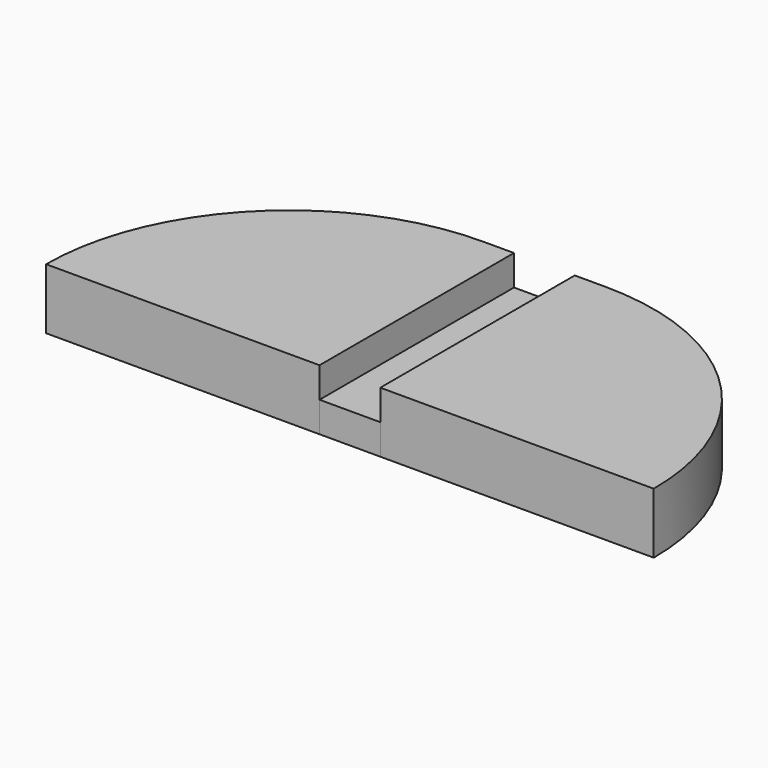
from build123d import *

# Parameters (mm, degrees)
F0_W     = 6.35
F0_H     = 25.4
F1_DEPTH = 6.35
F3_DEPTH = 3.175


with BuildPart() as f1:
    # F0 (on Top) → F1 (new body)
    with BuildSketch(Plane.XY):
        with BuildLine():
            Line((34.925, 25.400001), (34.925, 1e-06))
            Line((34.925, 1e-06), (63.5, 2e-06))
            ThreePointArc((63.5, 2e-06), (56.060512, 17.960514), (38.1, 25.400001))
            Line((38.1, 25.400001), (34.925, 25.400001))
        make_face()
        with BuildLine():
            ThreePointArc((25.4, 25.400001), (7.439487, 17.960513), (0, 0))
            Line((0, 0), (28.575, 1e-06))
            Line((28.575, 1e-06), (28.575, 25.400001))
            Line((28.575, 25.400001), (25.4, 25.400001))
        make_face()
        with Locations((31.75, 12.700001)):
            Rectangle(F0_W, F0_H)
    extrude(amount=F1_DEPTH)

    # F2 (on face) → F3 (cut)
    with BuildSketch(Plane.XY.offset(6.35)):
        Polygon((28.574999, 25.400001), (28.575, 1e-06), (34.925, 1e-06), (34.924999, 25.400001), align=None)
    extrude(amount=-F3_DEPTH, mode=Mode.SUBTRACT)


solid = f1.part
